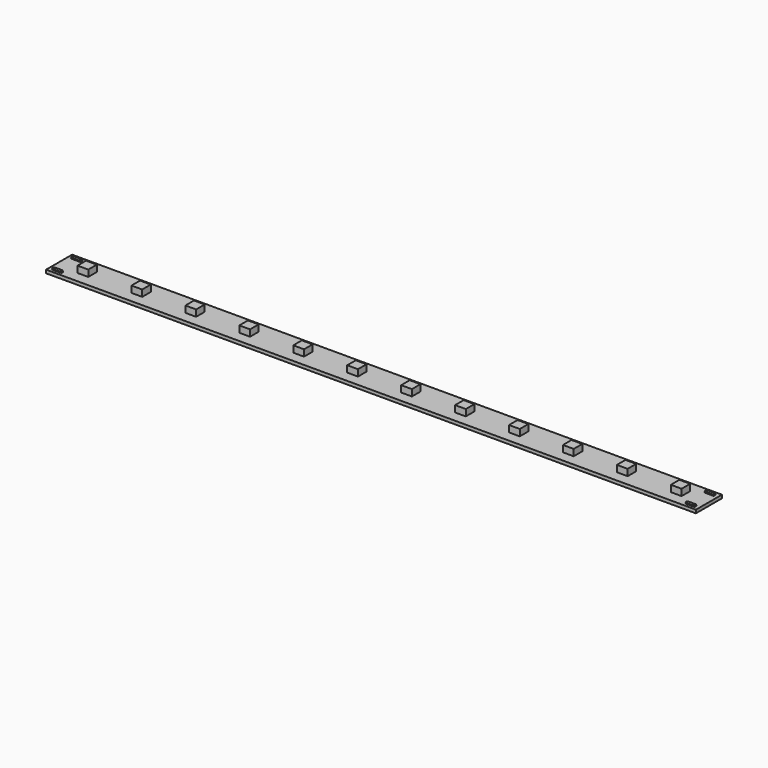
from build123d import *

# Parameters (mm, degrees)
F0_W     = 200
F0_H     = 10
F1_DEPTH = 1
F2_W     = 3.3
F2_H     = 3.3
F3_DEPTH = 2
F5_DEPTH = 0.3


with BuildPart() as f1:
    # F0 (on Top) → F1 (new body)
    with BuildSketch(Plane.XY):
        with Locations((100, 5)):
            Rectangle(F0_W, F0_H)
    extrude(amount=F1_DEPTH)

    # F2 (on face) → F3 (join)
    with BuildSketch(Plane.XY.offset(1)):
        with Locations((8.65, 5)):
            Rectangle(F2_W, F2_H)
        with Locations((25.25, 5)):
            Rectangle(F2_W, F2_H)
        with Locations((41.85, 5)):
            Rectangle(F2_W, F2_H)
        with Locations((58.45, 5)):
            Rectangle(F2_W, F2_H)
        with Locations((75.05, 5)):
            Rectangle(F2_W, F2_H)
        with Locations((91.65, 5)):
            Rectangle(F2_W, F2_H)
        with Locations((108.25, 5)):
            Rectangle(F2_W, F2_H)
        with Locations((124.85, 5)):
            Rectangle(F2_W, F2_H)
        with Locations((141.45, 5)):
            Rectangle(F2_W, F2_H)
        with Locations((158.05, 5)):
            Rectangle(F2_W, F2_H)
        with Locations((174.65, 5)):
            Rectangle(F2_W, F2_H)
        with Locations((191.25, 5)):
            Rectangle(F2_W, F2_H)
    extrude(amount=F3_DEPTH)

    # F4 (on face) → F5 (join)
    with BuildSketch(Plane.XY.offset(1)):
        with BuildLine():
            ThreePointArc((1.001016, 1.177174), (1.088884, 0.965042), (1.301016, 0.877174))
            Line((1.301016, 0.877174), (3.701016, 0.877174))
            ThreePointArc((3.701016, 0.877174), (3.913148, 0.965042), (4.001016, 1.177174))
            Line((4.001016, 1.177174), (4.001016, 1.456027))
            ThreePointArc((4.001016, 1.456027), (3.913148, 1.668159), (3.701016, 1.756027))
            Line((3.701016, 1.756027), (1.301016, 1.756027))
            ThreePointArc((1.301016, 1.756027), (1.088884, 1.668159), (1.001016, 1.456027))
            Line((1.001016, 1.456027), (1.001016, 1.177174))
        make_face()
        with BuildLine():
            ThreePointArc((198.629966, 8.232874), (198.842098, 8.320742), (198.929966, 8.532874))
            Line((198.929966, 8.532874), (198.929966, 8.811727))
            ThreePointArc((198.929966, 8.811727), (198.842098, 9.023859), (198.629966, 9.111727))
            Line((198.629966, 9.111727), (196.229966, 9.111727))
            ThreePointArc((196.229966, 9.111727), (196.017834, 9.023859), (195.929966, 8.811727))
            Line((195.929966, 8.811727), (195.929966, 8.532874))
            ThreePointArc((195.929966, 8.532874), (196.017834, 8.320742), (196.229966, 8.232874))
            Line((196.229966, 8.232874), (198.629966, 8.232874))
        make_face()
        with BuildLine():
            ThreePointArc((198.629966, 0.877174), (198.842098, 0.965042), (198.929966, 1.177174))
            Line((198.929966, 1.177174), (198.929966, 1.456027))
            ThreePointArc((198.929966, 1.456027), (198.842098, 1.668159), (198.629966, 1.756027))
            Line((198.629966, 1.756027), (196.229966, 1.756027))
            ThreePointArc((196.229966, 1.756027), (196.017834, 1.668159), (195.929966, 1.456027))
            Line((195.929966, 1.456027), (195.929966, 1.277174))
            ThreePointArc((195.929966, 1.277174), (196.047123, 0.994331), (196.329966, 0.877174))
            Line((196.329966, 0.877174), (198.629966, 0.877174))
        make_face()
        with BuildLine():
            ThreePointArc((3.701016, 8.232874), (3.913148, 8.320742), (4.001016, 8.532874))
            Line((4.001016, 8.532874), (4.001016, 8.811727))
            ThreePointArc((4.001016, 8.811727), (3.913148, 9.023859), (3.701016, 9.111727))
            Line((3.701016, 9.111727), (1.301016, 9.111727))
            ThreePointArc((1.301016, 9.111727), (1.088884, 9.023859), (1.001016, 8.811727))
            Line((1.001016, 8.811727), (1.001016, 8.532874))
            ThreePointArc((1.001016, 8.532874), (1.088884, 8.320742), (1.301016, 8.232874))
            Line((1.301016, 8.232874), (3.701016, 8.232874))
        make_face()
    extrude(amount=F5_DEPTH)


solid = f1.part
